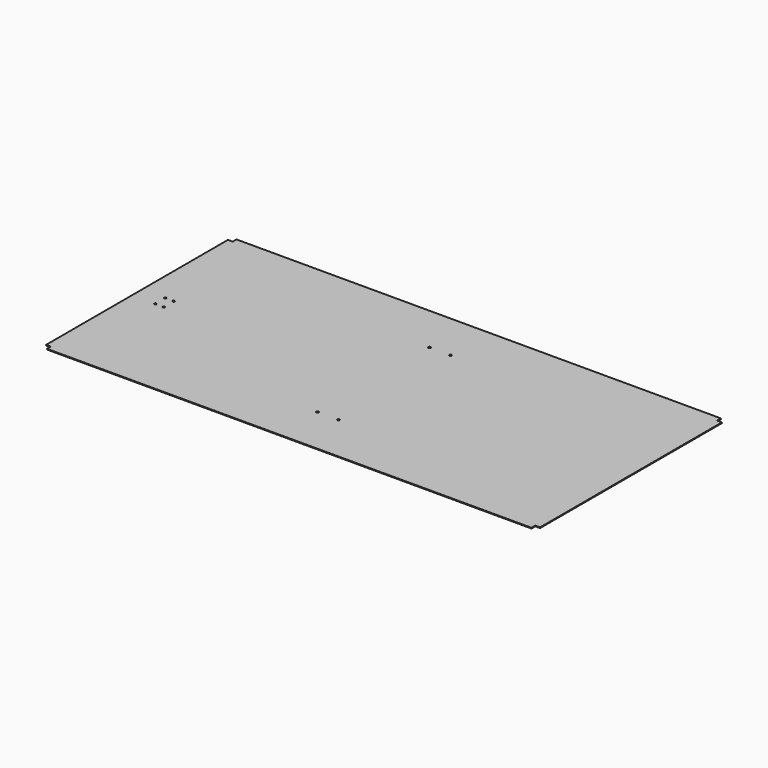
from build123d import *

# Parameters (mm, degrees)
F0_W      = 2065
F0_H      = 950
F1_DEPTH  = 3
F2_R      = 5
F3_DEPTH  = 3
F5_R      = 4.5
F6_DEPTH  = 3
F7_W      = 2025
F7_H      = 3
F8_DEPTH  = 20
F9_W      = 2025
F9_H      = 3
F10_DEPTH = 20


with BuildPart() as f1:
    # F0 (on Top) → F1 (new body)
    with BuildSketch(Plane.XY):
        Rectangle(F0_W, F0_H)
    extrude(amount=F1_DEPTH)

    # F2 (on face) → F3 (cut, through all)
    with BuildSketch(Plane.XY.offset(3)):
        with Locations((-44, -292.5)):
            Circle(F2_R)
        with Locations((44, -292.5)):
            Circle(F2_R)
    f3 = extrude(amount=-F3_DEPTH, mode=Mode.SUBTRACT)

    # F4: F3 across plane
    add(f3.mirror(Plane.XZ), mode=Mode.SUBTRACT)

    # F5 (on face) → F6 (cut, through all)
    with BuildSketch(Plane.XY.offset(3)):
        with Locations((-935, -26)):
            Circle(F5_R)
        with Locations((-935, 26)):
            Circle(F5_R)
        with Locations((-900, -26)):
            Circle(F5_R)
        with Locations((-900, 26)):
            Circle(F5_R)
    extrude(amount=-F6_DEPTH, mode=Mode.SUBTRACT)

    # F7 (on face) → F8 (join)
    with BuildSketch(Plane.XZ.offset(475)):
        with Locations((0, 1.5)):
            Rectangle(F7_W, F7_H)
    extrude(amount=F8_DEPTH)

    # F9 (on face) → F10 (join)
    with BuildSketch(Plane(origin=(0, 475, 0), x_dir=(-1, 0, 0), z_dir=(0, 1, 0))):
        with Locations((0, 1.5)):
            Rectangle(F9_W, F9_H)
    extrude(amount=F10_DEPTH)


solid = f1.part
